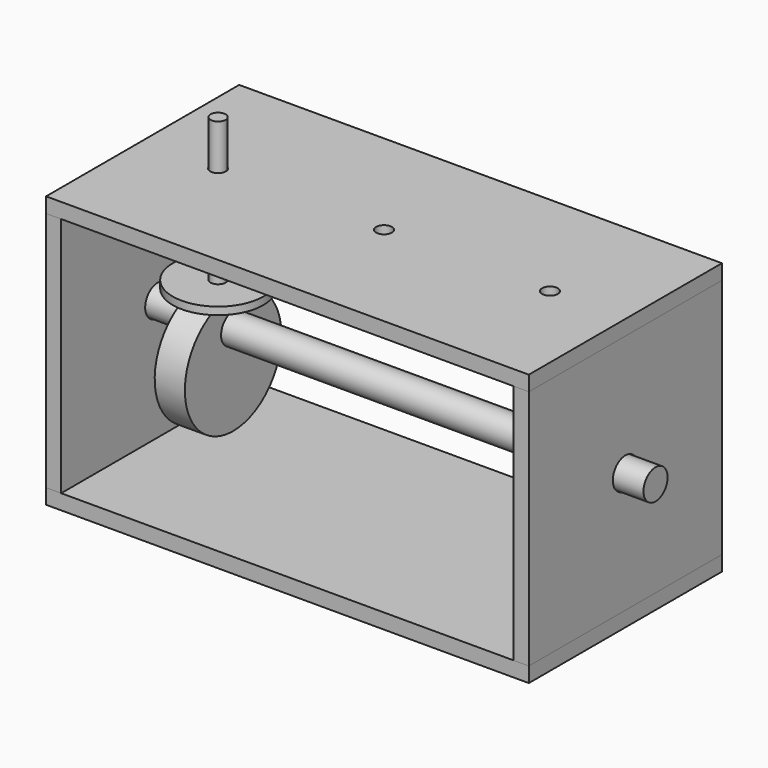
from build123d import *

# Parameters (mm, degrees)
F2_DEPTH      = 50.8
F3_DEPTH      = 50.8
F3_DEPTH_BACK = 50.8
F4_R          = 6.604
F4_R_2        = 6.35
F5_DEPTH      = 203.201
F6_DEPTH      = 12.7
F6_DEPTH_BACK = 203.2
F1_W          = 12.7
F1_H          = 25.4
F10_D         = 6.604
F12_R         = 3.175
F13_DEPTH     = 63.5
F12_R_2       = 19.05
F14_DEPTH     = 3.175


with BuildPart() as f2:
    # F1 (on Front) → F2 (new body, symmetric)
    with BuildSketch(Plane.XZ):
        Polygon((-95.25, 6.35), (-101.6, 6.35), (-101.6, 0), (101.6, 0), (101.6, 6.35), (95.25, 6.35), align=None)
    extrude(amount=F2_DEPTH, both=True)


with BuildPart() as f2b:
    # F1 (on Front) → F2, piece 2 (new body, symmetric)
    with BuildSketch(Plane.XZ):
        Polygon((-101.6, 114.3), (-101.6, 107.95), (-95.25, 107.95), (95.25, 107.95), (101.6, 107.95), (101.6, 114.3), align=None)
    extrude(amount=F2_DEPTH, both=True)

    # F10 (through all)
    with Locations(Plane.XY.offset(114.3)):
        with Locations((-69.85, 0), (0, 0), (69.85, 0)):
            Hole(F10_D / 2)


with BuildPart() as f3:
    # F1 (on Front) → F3 (new body, two sides)
    with BuildSketch(Plane.XZ) as f3_sk:
        Polygon((-101.6, 107.95), (-101.6, 6.35), (-95.25, 6.35), (-95.25, 57.15), (-95.25, 107.95), align=None)
    extrude(amount=F3_DEPTH)
    extrude(f3_sk.sketch, amount=-F3_DEPTH_BACK)


with BuildPart() as f3b:
    # F1 (on Front) → F3, piece 2 (new body, two sides)
    with BuildSketch(Plane.XZ) as f3_2_sk:
        Polygon((95.25, 57.15), (95.25, 6.35), (101.6, 6.35), (101.6, 107.95), (95.25, 107.95), align=None)
    extrude(amount=F3_DEPTH)
    extrude(f3_2_sk.sketch, amount=-F3_DEPTH_BACK)


with BuildPart() as f5_tool:
    # F4 (on face) → F5 (new body, through all)
    with BuildSketch(Plane.YZ.offset(101.6)):
        with Locations((0, 57.15)):
            Circle(F4_R)
        with Locations((0, 57.15)):
            Circle(F4_R_2, mode=Mode.SUBTRACT)
        with Locations((0, 57.15)):
            Circle(F4_R_2)
    extrude(amount=-F5_DEPTH)


with BuildPart() as f3_1:
    add(f3.part)

    # F5: cut by f5_tool
    add(f5_tool.part, mode=Mode.SUBTRACT)


with BuildPart() as f3b_1:
    add(f3b.part)

    # F5: cut by f5_tool
    add(f5_tool.part, mode=Mode.SUBTRACT)


with BuildPart() as f6:
    # F4 (on face) → F6 (new body, two sides)
    with BuildSketch(Plane.YZ.offset(101.6)) as f6_sk:
        with Locations((0, 57.15)):
            Circle(F4_R_2)
    extrude(amount=F6_DEPTH)
    extrude(f6_sk.sketch, amount=-F6_DEPTH_BACK)


with BuildPart() as f7:
    # F1 (on Front) → F7 (revolve)
    with BuildSketch(Plane.XZ):
        with Locations((-69.85, 31.75)):
            Rectangle(F1_W, F1_H)
    revolve(axis=Axis((-69.85, 0, 44.45), (1, 0, 0)))

    # F8: cut F6
    add(f6.part, mode=Mode.SUBTRACT)


with BuildPart() as f13:
    # F12 (on plane+point) → F13 (new body, through all)
    with BuildSketch(Plane.XY.offset(69.85)):
        with Locations((-69.85, 0)):
            Circle(F12_R)
    extrude(amount=F13_DEPTH)


with BuildPart() as f14:
    # F12 (on plane+point) → F14 (new body)
    with BuildSketch(Plane.XY.offset(69.85)):
        with Locations((-69.85, 0)):
            Circle(F12_R_2)
        with Locations((-69.85, 0)):
            Circle(F12_R, mode=Mode.SUBTRACT)
    extrude(amount=F14_DEPTH)


solid = Compound([f2.part, f2b.part, f3_1.part, f3b_1.part, f6.part, f7.part, f13.part, f14.part])
